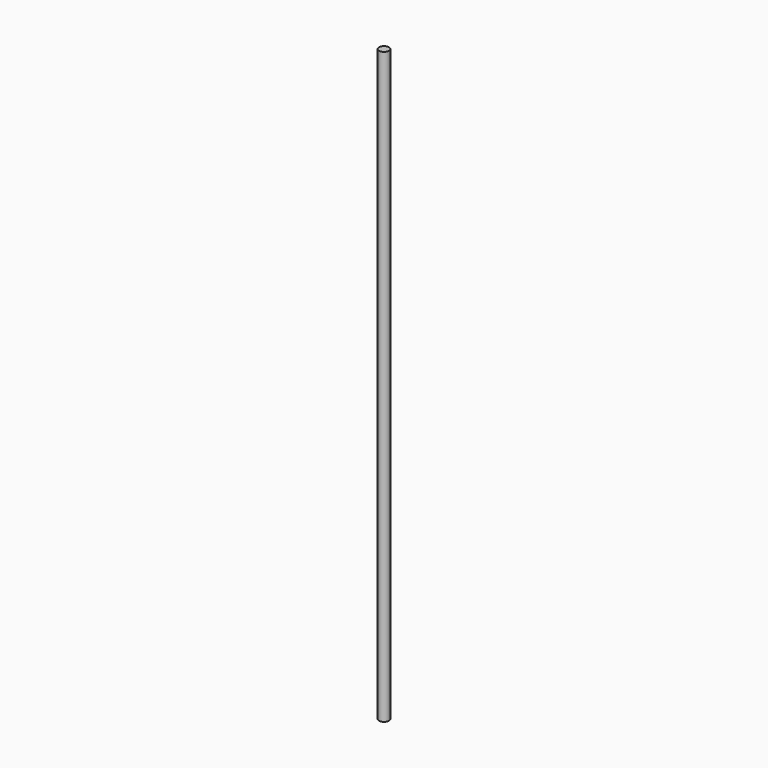
from build123d import *

# Parameters (mm, degrees)
F1_R     = 3.2
F2_DEPTH = 382


with BuildPart() as f2:
    # F1 (on offset) → F2 (new body)
    with BuildSketch(Plane.XY.offset(-27)):
        Circle(F1_R)
    extrude(amount=-F2_DEPTH)


solid = f2.part
